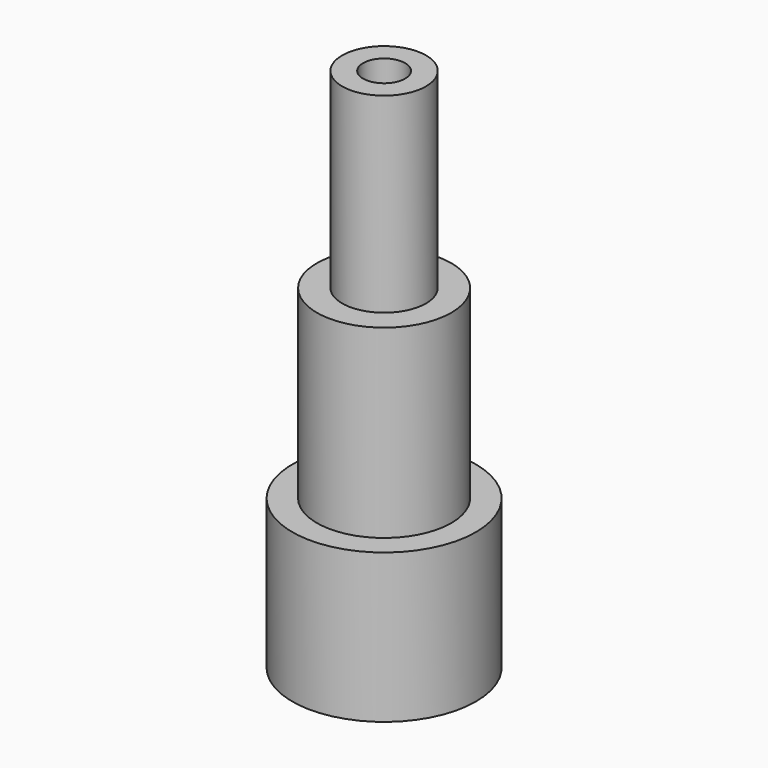
from build123d import *

# Parameters (mm, degrees)
F0_R     = 17.295
F1_DEPTH = 28.1
F2_R     = 12.66
F3_DEPTH = 34.88
F4_R     = 7.9
F5_DEPTH = 36
F7_D     = 7.92
F7_DEPTH = 26.89
F7_TIP   = 2.3794080513


with BuildPart() as f1:
    # F0 (on Top) → F1 (new body)
    with BuildSketch(Plane.XY):
        Circle(F0_R)
    extrude(amount=F1_DEPTH)

    # F2 (on face) → F3 (join)
    with BuildSketch(Plane.XY.offset(28.1)):
        Circle(F2_R)
    extrude(amount=F3_DEPTH)


with BuildPart() as f5:
    # F4 (on face) → F5 (new body)
    with BuildSketch(Plane.XY.offset(62.98)):
        Circle(F4_R)
    extrude(amount=F5_DEPTH)

    # F7
    with Locations(Plane.XY.offset(98.98)):
        with Locations((0, 0)):
            Hole(F7_D / 2, depth=F7_DEPTH)
            with Locations((0, 0, -(F7_DEPTH + F7_TIP / 2))):  # 118° drill point
                Cone(0, F7_D / 2, F7_TIP, mode=Mode.SUBTRACT)


solid = Compound([f1.part, f5.part])
